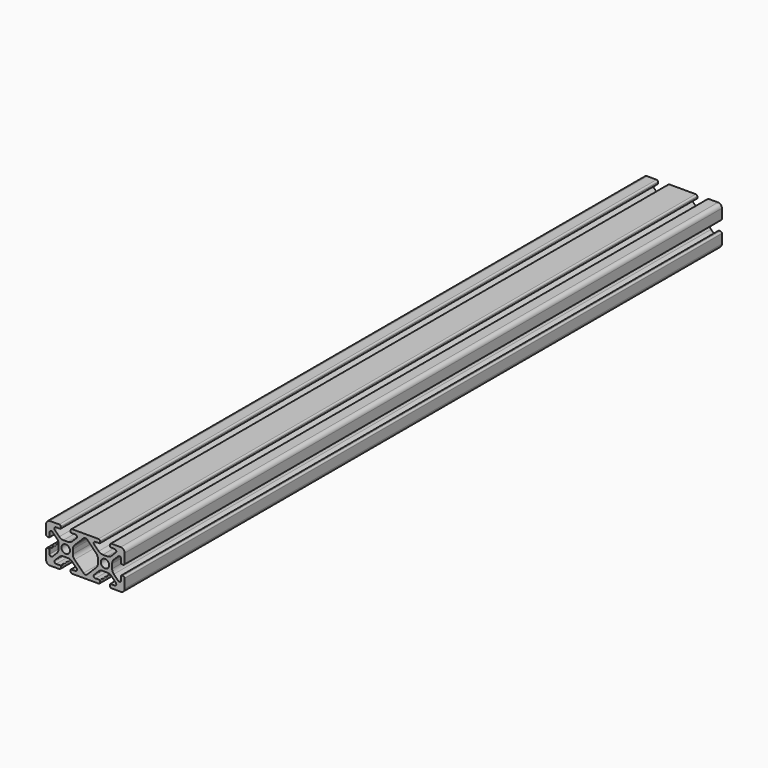
from build123d import *

# Parameters (mm, degrees)
F0_R     = 2.1463
F1_DEPTH = 380


with BuildPart() as f1:
    # F0 (on Front) → F1 (new body)
    with BuildSketch(Plane.XZ):
        with BuildLine():
            Line((-9.75241, 4.759444), (-12.019248, 4.759444))
            ThreePointArc((-12.019248, 4.759444), (-13.166227, 4.987592), (-14.138589, 5.637303))
            Line((-14.138589, 5.637303), (-16.393426, 7.892141))
            ThreePointArc((-16.393426, 7.892141), (-16.575125, 8.805603), (-15.800729, 9.323038))
            Line((-15.800729, 9.323038), (-13.692529, 9.323038))
            ThreePointArc((-13.692529, 9.323038), (-13.477003, 9.412312), (-13.387729, 9.627838))
            Line((-13.387729, 9.627838), (-13.387729, 10.339038))
            ThreePointArc((-13.387729, 10.339038), (-13.618353, 10.895814), (-14.175129, 11.126438))
            Line((-14.175129, 11.126438), (-18.874129, 11.126438))
            ThreePointArc((-18.874129, 11.126438), (-20.29301, 10.538718), (-20.880729, 9.119838))
            Line((-20.880729, 9.119838), (-20.880729, 4.420838))
            ThreePointArc((-20.880729, 4.420838), (-20.650105, 3.864062), (-20.093329, 3.633438))
            Line((-20.093329, 3.633438), (-19.382129, 3.633438))
            ThreePointArc((-19.382129, 3.633438), (-19.166603, 3.722712), (-19.077329, 3.938238))
            Line((-19.077329, 3.938238), (-19.077329, 6.046438))
            ThreePointArc((-19.077329, 6.046438), (-18.559895, 6.820834), (-17.646432, 6.639135))
            Line((-17.646432, 6.639135), (-15.391595, 4.384297))
            ThreePointArc((-15.391595, 4.384297), (-14.741884, 3.411936), (-14.513736, 2.264957))
            Line((-14.513736, 2.264957), (-14.513736, -0.001881))
            ThreePointArc((-14.513736, -0.001881), (-14.741884, -1.14886), (-15.391595, -2.121222))
            Line((-15.391595, -2.121222), (-17.646432, -4.376059))
            ThreePointArc((-17.646432, -4.376059), (-18.559895, -4.557758), (-19.077329, -3.783362))
            Line((-19.077329, -3.783362), (-19.077329, -1.675162))
            ThreePointArc((-19.077329, -1.675162), (-19.166603, -1.459636), (-19.382129, -1.370362))
            Line((-19.382129, -1.370362), (-20.093329, -1.370362))
            ThreePointArc((-20.093329, -1.370362), (-20.650105, -1.600986), (-20.880729, -2.157762))
            Line((-20.880729, -2.157762), (-20.880729, -6.856762))
            ThreePointArc((-20.880729, -6.856762), (-20.29301, -8.275643), (-18.874129, -8.863362))
            Line((-18.874129, -8.863362), (-14.175129, -8.863362))
            ThreePointArc((-14.175129, -8.863362), (-13.618353, -8.632738), (-13.387729, -8.075962))
            Line((-13.387729, -8.075962), (-13.387729, -7.364762))
            ThreePointArc((-13.387729, -7.364762), (-13.477003, -7.149236), (-13.692529, -7.059962))
            Line((-13.692529, -7.059962), (-15.800729, -7.059962))
            ThreePointArc((-15.800729, -7.059962), (-16.575125, -6.542528), (-16.393426, -5.629065))
            Line((-16.393426, -5.629065), (-14.138589, -3.374228))
            ThreePointArc((-14.138589, -3.374228), (-13.166227, -2.724517), (-12.019248, -2.496368))
            Line((-12.019248, -2.496368), (-9.75241, -2.496368))
            ThreePointArc((-9.75241, -2.496368), (-8.605431, -2.724517), (-7.63307, -3.374228))
            Line((-7.63307, -3.374228), (-5.378232, -5.629065))
            ThreePointArc((-5.378232, -5.629065), (-5.196534, -6.542528), (-5.970929, -7.059962))
            Line((-5.970929, -7.059962), (-8.079129, -7.059962))
            ThreePointArc((-8.079129, -7.059962), (-8.294656, -7.149236), (-8.383929, -7.364762))
            Line((-8.383929, -7.364762), (-8.383929, -8.075962))
            ThreePointArc((-8.383929, -8.075962), (-8.153305, -8.632738), (-7.596529, -8.863362))
            Line((-7.596529, -8.863362), (5.814671, -8.863362))
            ThreePointArc((5.814671, -8.863362), (6.371447, -8.632738), (6.602071, -8.075962))
            Line((6.602071, -8.075962), (6.602071, -7.364762))
            ThreePointArc((6.602071, -7.364762), (6.512797, -7.149236), (6.297271, -7.059962))
            Line((6.297271, -7.059962), (4.189071, -7.059962))
            ThreePointArc((4.189071, -7.059962), (3.414675, -6.542528), (3.596374, -5.629065))
            Line((3.596374, -5.629065), (5.851211, -3.374228))
            ThreePointArc((5.851211, -3.374228), (6.823573, -2.724517), (7.970552, -2.496368))
            Line((7.970552, -2.496368), (10.23739, -2.496368))
            ThreePointArc((10.23739, -2.496368), (11.384369, -2.724517), (12.35673, -3.374228))
            Line((12.35673, -3.374228), (14.611568, -5.629065))
            ThreePointArc((14.611568, -5.629065), (14.793266, -6.542528), (14.018871, -7.059962))
            Line((14.018871, -7.059962), (11.910671, -7.059962))
            ThreePointArc((11.910671, -7.059962), (11.695144, -7.149236), (11.605871, -7.364762))
            Line((11.605871, -7.364762), (11.605871, -8.075962))
            ThreePointArc((11.605871, -8.075962), (11.836495, -8.632738), (12.393271, -8.863362))
            Line((12.393271, -8.863362), (17.092271, -8.863362))
            ThreePointArc((17.092271, -8.863362), (18.511151, -8.275643), (19.098871, -6.856762))
            Line((19.098871, -6.856762), (19.098871, -2.157762))
            ThreePointArc((19.098871, -2.157762), (18.868247, -1.600986), (18.311471, -1.370362))
            Line((18.311471, -1.370362), (17.600271, -1.370362))
            ThreePointArc((17.600271, -1.370362), (17.384744, -1.459636), (17.295471, -1.675162))
            Line((17.295471, -1.675162), (17.295471, -3.783362))
            ThreePointArc((17.295471, -3.783362), (16.778036, -4.557758), (15.864574, -4.376059))
            Line((15.864574, -4.376059), (13.609736, -2.121222))
            ThreePointArc((13.609736, -2.121222), (12.960025, -1.14886), (12.731877, -0.001881))
            Line((12.731877, -0.001881), (12.731877, 2.264957))
            ThreePointArc((12.731877, 2.264957), (12.960025, 3.411936), (13.609736, 4.384297))
            Line((13.609736, 4.384297), (15.864574, 6.639135))
            ThreePointArc((15.864574, 6.639135), (16.778036, 6.820834), (17.295471, 6.046438))
            Line((17.295471, 6.046438), (17.295471, 3.938238))
            ThreePointArc((17.295471, 3.938238), (17.384744, 3.722712), (17.600271, 3.633438))
            Line((17.600271, 3.633438), (18.311471, 3.633438))
            ThreePointArc((18.311471, 3.633438), (18.868247, 3.864062), (19.098871, 4.420838))
            Line((19.098871, 4.420838), (19.098871, 9.119838))
            ThreePointArc((19.098871, 9.119838), (18.511151, 10.538718), (17.092271, 11.126438))
            Line((17.092271, 11.126438), (12.393271, 11.126438))
            ThreePointArc((12.393271, 11.126438), (11.836495, 10.895814), (11.605871, 10.339038))
            Line((11.605871, 10.339038), (11.605871, 9.627838))
            ThreePointArc((11.605871, 9.627838), (11.695144, 9.412312), (11.910671, 9.323038))
            Line((11.910671, 9.323038), (14.018871, 9.323038))
            ThreePointArc((14.018871, 9.323038), (14.793266, 8.805603), (14.611568, 7.892141))
            Line((14.611568, 7.892141), (12.35673, 5.637303))
            ThreePointArc((12.35673, 5.637303), (11.384369, 4.987592), (10.23739, 4.759444))
            Line((10.23739, 4.759444), (7.970552, 4.759444))
            ThreePointArc((7.970552, 4.759444), (6.823573, 4.987592), (5.851211, 5.637303))
            Line((5.851211, 5.637303), (3.596374, 7.892141))
            ThreePointArc((3.596374, 7.892141), (3.414675, 8.805603), (4.189071, 9.323038))
            Line((4.189071, 9.323038), (6.297271, 9.323038))
            ThreePointArc((6.297271, 9.323038), (6.512797, 9.412312), (6.602071, 9.627838))
            Line((6.602071, 9.627838), (6.602071, 10.339038))
            ThreePointArc((6.602071, 10.339038), (6.371447, 10.895814), (5.814671, 11.126438))
            Line((5.814671, 11.126438), (-7.596529, 11.126438))
            ThreePointArc((-7.596529, 11.126438), (-8.153305, 10.895814), (-8.383929, 10.339038))
            Line((-8.383929, 10.339038), (-8.383929, 9.627838))
            ThreePointArc((-8.383929, 9.627838), (-8.294656, 9.412312), (-8.079129, 9.323038))
            Line((-8.079129, 9.323038), (-5.970929, 9.323038))
            ThreePointArc((-5.970929, 9.323038), (-5.196534, 8.805603), (-5.378232, 7.892141))
            Line((-5.378232, 7.892141), (-7.63307, 5.637303))
            ThreePointArc((-7.63307, 5.637303), (-8.605431, 4.987592), (-9.75241, 4.759444))
        make_face()
        with Locations((-10.885829, 1.131538)):
            Circle(F0_R, mode=Mode.SUBTRACT)
        with BuildLine():
            Line((-7.257923, -0.001881), (-7.257923, 2.264957))
            ThreePointArc((-7.257923, 2.264957), (-7.029775, 3.411936), (-6.380064, 4.384297))
            Line((-6.380064, 4.384297), (-1.83051, 8.933851))
            ThreePointArc((-1.83051, 8.933851), (-0.890929, 9.323038), (0.048652, 8.933851))
            Line((0.048652, 8.933851), (4.598205, 4.384297))
            ThreePointArc((4.598205, 4.384297), (5.247916, 3.411936), (5.476064, 2.264957))
            Line((5.476064, 2.264957), (5.476064, -0.001881))
            ThreePointArc((5.476064, -0.001881), (5.247916, -1.14886), (4.598205, -2.121222))
            Line((4.598205, -2.121222), (0.048652, -6.670775))
            ThreePointArc((0.048652, -6.670775), (-0.890929, -7.059962), (-1.83051, -6.670775))
            Line((-1.83051, -6.670775), (-6.380064, -2.121222))
            ThreePointArc((-6.380064, -2.121222), (-7.029775, -1.14886), (-7.257923, -0.001881))
        make_face(mode=Mode.SUBTRACT)
        with Locations((9.103971, 1.131538)):
            Circle(F0_R, mode=Mode.SUBTRACT)
    extrude(amount=F1_DEPTH)


solid = f1.part
